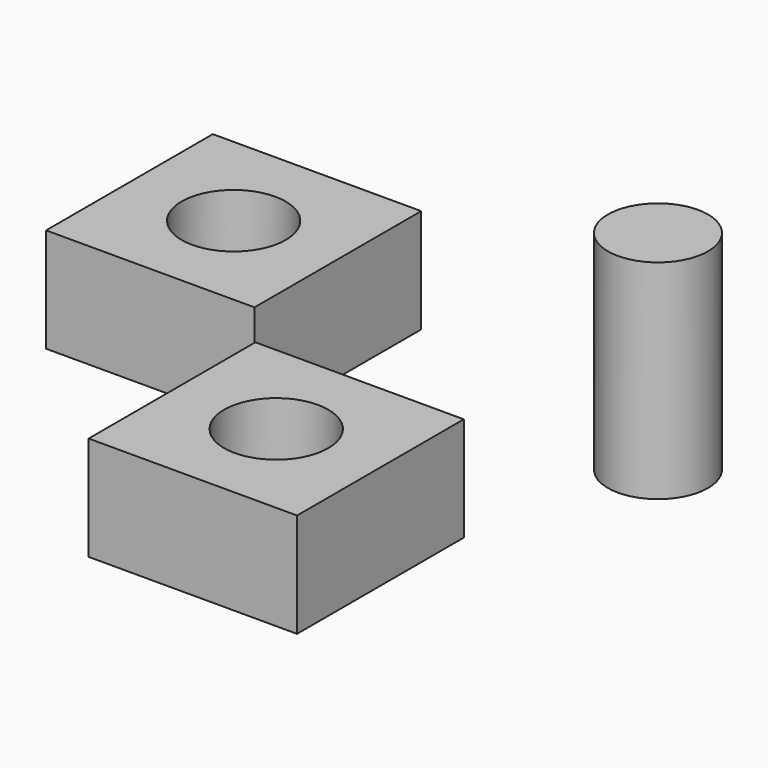
from build123d import *

# Parameters (mm, degrees)
F0_W     = 12.7
F0_H     = 12.7
F0_R     = 3.175
F1_DEPTH = 3.175
F2_R     = 3.048
F3_DEPTH = 6.35
F4_W     = 12.7
F4_H     = 12.7
F4_R     = 3.175
F5_DEPTH = 3.175


with BuildPart() as f1:
    # F0 (on Top) → F1 (new body, symmetric)
    with BuildSketch(Plane.XY):
        with Locations((-56.640938, 35.354281)):
            Rectangle(F0_W, F0_H)
        with Locations((-56.640938, 35.354281)):
            Circle(F0_R, mode=Mode.SUBTRACT)
    extrude(amount=F1_DEPTH, both=True)


with BuildPart() as f3:
    # F2 (on Top) → F3 (new body, symmetric)
    with BuildSketch(Plane.XY):
        with Locations((-32.518148, 37.524734)):
            Circle(F2_R)
    extrude(amount=F3_DEPTH, both=True)


with BuildPart() as f5:
    # F4 (on Top) → F5 (new body, symmetric)
    with BuildSketch(Plane.XY):
        with Locations((-60.64437, 19.696219)):
            Rectangle(F4_W, F4_H)
        with Locations((-60.64437, 19.696219)):
            Circle(F4_R, mode=Mode.SUBTRACT)
    extrude(amount=F5_DEPTH, both=True)


with BuildPart() as f5_1:
    # F6: moved
    add(f5.part.moved(Location((19.12446, 0, 3.19855))))


with BuildPart() as f1_1:
    # F7: moved
    add(f1.part.moved(Location((0, 0, 3.08424))))


with BuildPart() as f3_1:
    # F8: moved
    add(f3.part.moved(Location((0, 0, 6.21986))))


solid = Compound([f5_1.part, f1_1.part, f3_1.part])
